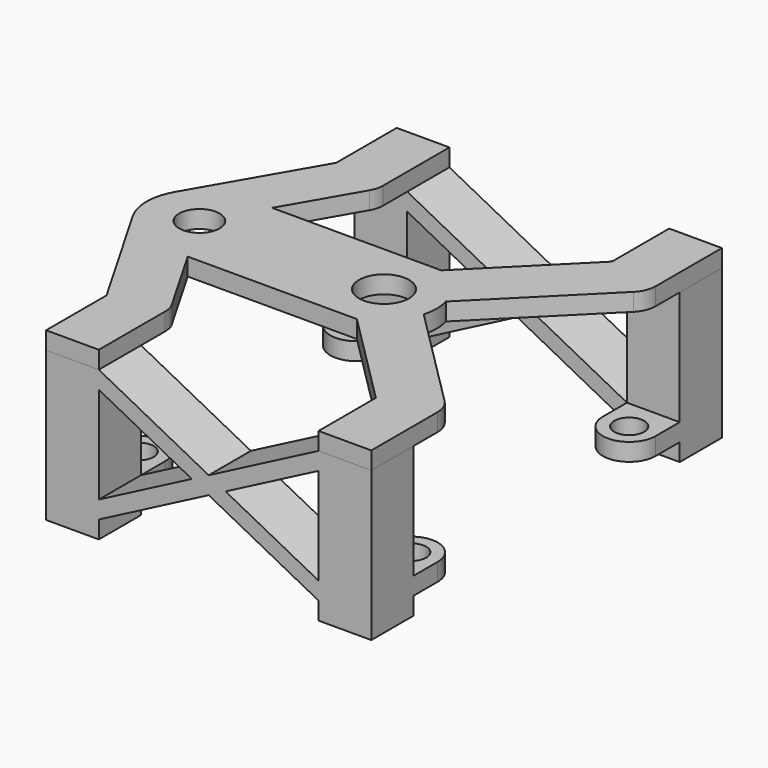
from build123d import *

# Parameters (mm, degrees)
SKETCH094_R                     = 2.3
SKETCH094_R_2                   = 2.85
PAD048_DEPTH                    = 2
SKETCH097_W                     = 6
SKETCH097_H                     = 6
PAD050_DEPTH                    = 17
SKETCH098_R                     = 1.7
PAD051_DEPTH                    = 2
SKETCH098_LINEARPATTERN001_2_R  = 1.7
PAD051_LINEARPATTERN001_2_DEPTH = 2
SKETCH097_LINEARPATTERN001_2_W  = 6
SKETCH097_LINEARPATTERN001_2_H  = 6
PAD050_LINEARPATTERN001_2_DEPTH = 17
PAD052_DEPTH                    = 6


with BuildPart() as part:
    # Sketch094 → Pad048 (new body)
    with BuildSketch(Plane.XY):
        with BuildLine():
            Line((3.464102, 6), (21, 6))
            Line((22.716302, 6), (21, 6))
            Line((22.716302, 6), (33.500258, 16.783955))
            Line((33.500258, 16.783955), (33.500258, 24.930573))
            Line((33.500258, 24.930573), (39.500258, 24.930573))
            Line((39.500258, 24.930573), (39.500258, 15.5))
            ThreePointArc((38.650792, 13.449208), (39.279489, 14.390119), (39.500258, 15.5))
            Line((26.786802, 1.585219), (38.650792, 13.449208))
            ThreePointArc((26.786802, -1.585219), (27, 0), (26.786802, 1.585219))
            Line((26.786802, -1.585219), (38.650792, -13.449208))
            ThreePointArc((39.500258, -15.5), (39.279489, -14.390119), (38.650792, -13.449208))
            Line((39.500258, -24.930573), (39.500258, -15.5))
            Line((33.500258, -24.930573), (39.500258, -24.930573))
            Line((33.500258, -16.783955), (33.500258, -24.930573))
            Line((22.716302, -6), (33.500258, -16.783955))
            Line((21, -6), (22.716302, -6))
            Line((3.464102, -6), (21, -6))
            Line((3.464102, -6), (8.111697, -14.049871))
            ThreePointArc((8.500258, -15.5), (8.401434, -14.749358), (8.111697, -14.049871))
            Line((8.500258, -24.930573), (8.500258, -15.5))
            Line((2.500258, -24.930573), (8.500258, -24.930573))
            Line((2.500258, -16.330573), (2.500258, -24.930573))
            Line((-5.196152, -3), (2.500258, -16.330573))
            ThreePointArc((-5.196152, 3), (-6, 0), (-5.196152, -3))
            Line((-5.196152, 3), (2.500258, 16.330573))
            Line((2.500258, 16.330573), (2.500258, 24.930573))
            Line((2.500258, 24.930573), (8.500258, 24.930573))
            Line((8.500258, 24.930573), (8.500258, 15.5))
            ThreePointArc((8.111697, 14.049871), (8.401434, 14.749358), (8.500258, 15.5))
            Line((3.464102, 6), (8.111697, 14.049871))
        make_face()
        Circle(SKETCH094_R, mode=Mode.SUBTRACT)
        with Locations((21, 0)):
            Circle(SKETCH094_R_2, mode=Mode.SUBTRACT)
    extrude(amount=PAD048_DEPTH)

    # Sketch097 (on Face33 of Pad048) → Pad050 (join)
    with BuildSketch(Plane(origin=(0, 0, 0), x_dir=(1, 0, 0), z_dir=(0, 0, -1))):
        with Locations((5.5, 21.93)):
            Rectangle(SKETCH097_W, SKETCH097_H)
    pad050 = extrude(amount=PAD050_DEPTH)

    # Sketch098 → Pad051 (join)
    with BuildSketch(Plane.XY.offset(-15)):
        with BuildLine():
            Line((2.5, -18.93), (2.5, -15.5))
            ThreePointArc((8.5, -15.5), (5.5, -12.5), (2.5, -15.5))
            Line((8.5, -18.93), (8.5, -15.5))
            Line((2.5, -18.93), (8.5, -18.93))
        make_face()
        with Locations((5.5, -15.5)):
            Circle(SKETCH098_R, mode=Mode.SUBTRACT)
    pad051 = extrude(amount=PAD051_DEPTH)

    # Sketch098 LinearPattern001 2 → Pad051 LinearPattern001 2 (add)
    with BuildSketch(Plane(origin=(31, 0, -15), x_dir=(1, 0, 0), z_dir=(0, 0, 1))):
        with BuildLine():
            Line((2.5, -18.93), (2.5, -15.5))
            ThreePointArc((8.5, -15.5), (5.5, -12.5), (2.5, -15.5))
            Line((8.5, -18.93), (8.5, -15.5))
            Line((2.5, -18.93), (8.5, -18.93))
        make_face()
        with Locations((5.5, -15.5)):
            Circle(SKETCH098_LINEARPATTERN001_2_R, mode=Mode.SUBTRACT)
    pad051_linearpattern001_2 = extrude(amount=PAD051_LINEARPATTERN001_2_DEPTH)

    # Sketch097 LinearPattern001 2 → Pad050 LinearPattern001 2 (add)
    with BuildSketch(Plane(origin=(31, 0, 0), x_dir=(1, 0, 0), z_dir=(0, 0, -1))):
        with Locations((5.5, 21.93)):
            Rectangle(SKETCH097_LINEARPATTERN001_2_W, SKETCH097_LINEARPATTERN001_2_H)
    pad050_linearpattern001_2 = extrude(amount=PAD050_LINEARPATTERN001_2_DEPTH)

    # Mirrored001: Pad051, Pad050, Pad051 LinearPattern001 2, Pad050 LinearPattern001 2 across Sketch098 H_Axis
    add(pad051.mirror(Plane(origin=(0, 0, -15), x_dir=(0, 0, 1), z_dir=(0, 1, 0))))
    add(pad050.mirror(Plane(origin=(0, 0, -15), x_dir=(0, 0, 1), z_dir=(0, 1, 0))))
    add(pad051_linearpattern001_2.mirror(Plane(origin=(0, 0, -15), x_dir=(0, 0, 1), z_dir=(0, 1, 0))))
    add(pad050_linearpattern001_2.mirror(Plane(origin=(0, 0, -15), x_dir=(0, 0, 1), z_dir=(0, 1, 0))))

    # Sketch099 (on Face36 of MultiTransform001) → Pad052 (join)
    with BuildSketch(Plane.XZ.offset(24.93)):
        Polygon((8.5, 0), (21, -6.5), (33.5, 0), (33.5, -2), (22.923077, -7.5), (33.5, -13), (33.5, -15), (21, -8.5), (8.5, -15), (8.5, -13), (19.076923, -7.5), (8.5, -2), align=None)
    pad052 = extrude(amount=-PAD052_DEPTH)

    # Mirrored002: Pad052 across XZ
    add(pad052.mirror(Plane.XZ))


with BuildPart() as part_1:
    # Body024 placement: moved
    add(part.part.moved(Location((46.5, 0, 31))))


solid = part_1.part
